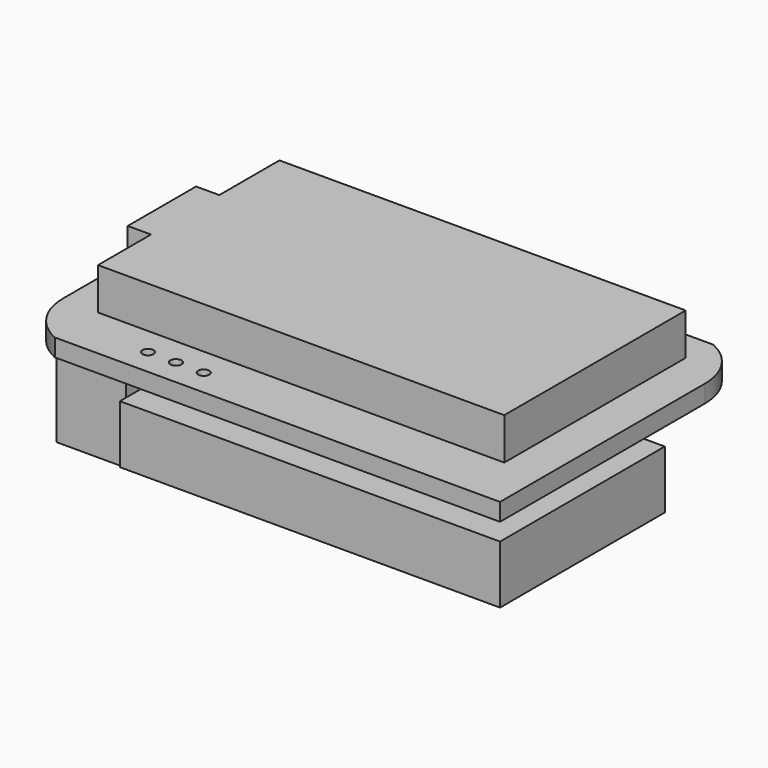
from build123d import *

# Parameters (mm, degrees)
F1_DEPTH  = 1.6002
F2_W      = 37.084
F2_H      = 20.701
F3_DEPTH  = 3.81
F4_W      = 7.7978
F4_H      = 3.2512
F5_DEPTH  = 2.1209
F6_R      = 0.508
F7_DEPTH  = 25.4
F8_W      = 6.35
F8_H      = 16.51
F9_DEPTH  = 7.9502
F10_W     = 7.62
F10_H     = 8.128
F11_DEPTH = 5.8674
F12_W     = 23.876
F12_H     = 3.81
F13_DEPTH = 1.5875
F14_W     = 8.128
F14_H     = 5.4737
F14_H_2   = 4.1275
F15_DEPTH = 3.048
F16_W     = 34.6964
F16_H     = 18.796
F16_W_2   = 23.876
F16_H_2   = 3.81
F17_DEPTH = 5.3086


with BuildPart() as f1:
    # F0 (on Top) → F1 (new body)
    with BuildSketch(Plane.XY):
        with BuildLine():
            Line((37.2917920684, -4.2399411205), (-3.3482079316, -4.2399411205))
            Line((-3.3482079316, -4.2399411205), (-3.3482079316, -27.6079411205))
            ThreePointArc((-3.3482079316, -27.6079411205), (-2.4501657042, -30.6373636727), (-0.0462079316, -32.6879411205))
            Line((-0.0462079316, -32.6879411205), (40.5937920684, -32.6879411205))
            Line((40.5937920684, -32.6879411205), (40.5937920684, -9.3199411205))
            ThreePointArc((40.5937920684, -9.3199411205), (39.6957498411, -6.2905185683), (37.2917920684, -4.2399411205))
        make_face()
    extrude(amount=F1_DEPTH)

    # F2 (on face) → F3 (join)
    with BuildSketch(Plane.XY.offset(1.6002)):
        with Locations((18.4957920684, -17.4098411205)):
            Rectangle(F2_W, F2_H)
        with Locations((18.4957920684, -17.4098411205)):
            Rectangle(F2_W, F2_H)
    extrude(amount=F3_DEPTH)

    # F4 (on face) → F5 (join)
    with BuildSketch(Plane(origin=(-0.0462079316, 0, 0), x_dir=(0, -1, 0), z_dir=(-1, 0, 0))):
        with Locations((17.8162411205, 3.7846)):
            Rectangle(F4_W, F4_H)
    extrude(amount=F5_DEPTH)

    # F6 (on face) → F7 (cut)
    with BuildSketch(Plane.XY.offset(1.6002)):
        with Locations((6.5577920684, -30.3003411205)):
            Circle(F6_R)
        with Locations((9.0977920684, -30.3003411205)):
            Circle(F6_R)
        with Locations((11.6377920684, -30.3003411205)):
            Circle(F6_R)
    extrude(amount=-F7_DEPTH, mode=Mode.SUBTRACT)

    # F8 (on face) → F9 (join)
    with BuildSketch(Plane(origin=(0, 0, 0), x_dir=(1, 0, 0), z_dir=(0, 0, -1))):
        with Locations((1.8587920684, 22.6549411205)):
            Rectangle(F8_W, F8_H)
    extrude(amount=F9_DEPTH)

    # F10 (on face) → F11 (join)
    with BuildSketch(Plane(origin=(0, 0, 0), x_dir=(1, 0, 0), z_dir=(0, 0, -1))):
        with Locations((2.4937920684, 9.4723411205)):
            Rectangle(F10_W, F10_H)
    extrude(amount=F11_DEPTH)

    # F12 (on face) → F13 (join)
    with BuildSketch(Plane(origin=(0, 0, 0), x_dir=(1, 0, 0), z_dir=(0, 0, -1))):
        with Locations((20.4515920684, 19.0989411205)):
            Rectangle(F12_W, F12_H)
    extrude(amount=F13_DEPTH)

    # F14 (on face) → F15 (join)
    with BuildSketch(Plane(origin=(0, 0, 0), x_dir=(1, 0, 0), z_dir=(0, 0, -1))):
        with Locations((27.4492920684, 5.6305911205)):
            Rectangle(F14_W, F14_H)
        with Locations((27.4492920684, 6.3036911205)):
            Rectangle(F14_W, F14_H_2)
    extrude(amount=F15_DEPTH)

    # F16 (on face) → F17 (join)
    with BuildSketch(Plane(origin=(0, 0, -1.5875), x_dir=(1, 0, 0), z_dir=(0, 0, -1))):
        with Locations((23.2455920684, 23.2899411205)):
            Rectangle(F16_W, F16_H)
        with Locations((20.4515920684, 19.0989411205)):
            Rectangle(F16_W_2, F16_H_2, mode=Mode.SUBTRACT)
        with Locations((23.2455920684, 23.2899411205)):
            Rectangle(F16_W, F16_H)
    extrude(amount=F17_DEPTH)


solid = f1.part
